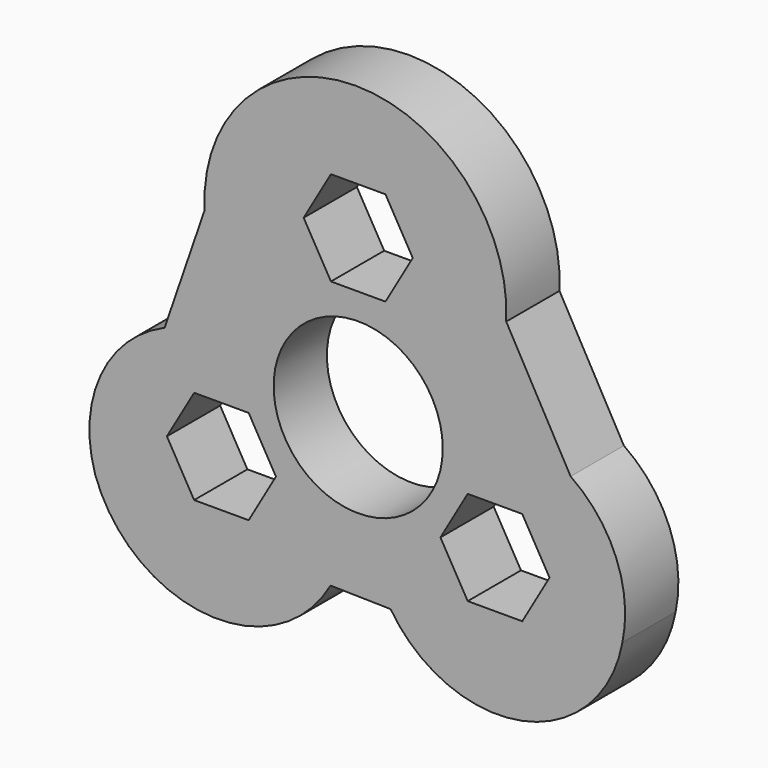
from build123d import *

# Parameters (mm, degrees)
F0_R     = 9.4
F1_DEPTH = 7.4


with BuildPart() as f1:
    # F0 (on Front) → F1 (new body)
    with BuildSketch(Plane.XZ):
        with BuildLine():
            Line((-3.074128, -17.463664), (3.600202, -17.596468))
            ThreePointArc((3.600202, -17.596468), (18.21376, -23.781068), (29.369, -12.495414))
            ThreePointArc((29.369, -12.495414), (28.680499, -4.42326), (23.611918, 1.896802))
            Line((23.611918, 1.896802), (16.4559, 14.71657))
            ThreePointArc((16.4559, 14.71657), (-0.307661, 32.363295), (-17.071221, 14.71657))
            Line((-17.071221, 14.71657), (-21.518895, 1.765988))
            ThreePointArc((-21.518895, 1.765988), (-28.625766, -5.186057), (-29.23692, -15.109013))
            ThreePointArc((-29.23692, -15.109013), (-16.918404, -24.762777), (-3.074128, -17.463664))
        make_face()
        Polygon((-12.173823, -14.02856), (-18.236001, -14.02856), (-21.26709, -8.77856), (-18.236001, -3.52856), (-12.173823, -3.52856), (-9.142734, -8.77856), align=None, mode=Mode.SUBTRACT)
        Circle(F0_R, mode=Mode.SUBTRACT)
        Polygon((18.236001, -3.52856), (21.26709, -8.77856), (18.236001, -14.02856), (12.173823, -14.02856), (9.142734, -8.77856), (12.173823, -3.52856), align=None, mode=Mode.SUBTRACT)
        Polygon((6.062178, 17.55712), (3.031089, 12.30712), (-3.031089, 12.30712), (-6.062178, 17.55712), (-3.031089, 22.80712), (3.031089, 22.80712), align=None, mode=Mode.SUBTRACT)
    extrude(amount=F1_DEPTH)


solid = f1.part
